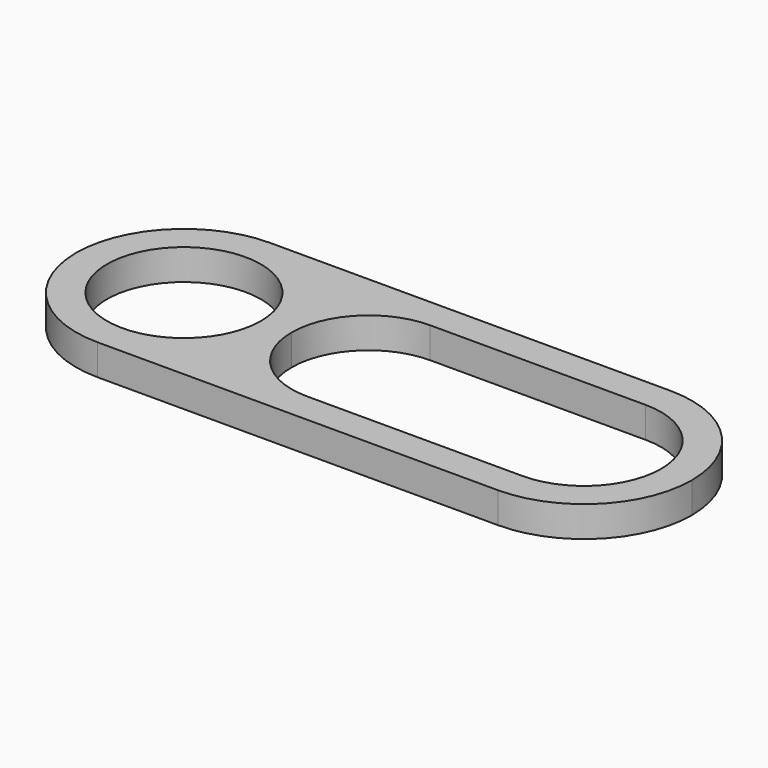
from build123d import *

# Parameters (mm, degrees)
F0_R     = 2.5
F2_DEPTH = 1


with BuildPart() as f2:
    # F0 (on Top) → F2 (new body)
    with BuildSketch(Plane.XY):
        with BuildLine():
            ThreePointArc((6, -2.5), (4.232233047, -1.767766953), (3.5, 0))
            ThreePointArc((3.5, 0), (2.4748737342, -2.4748737342), (0, -3.5))
            Line((0, -3.5), (13, -3.5))
            ThreePointArc((13, -3.5), (11.6771243445, -3.2403703492), (10.5505102572, -2.5))
            Line((10.5505102572, -2.5), (6, -2.5))
        make_face()
        with BuildLine():
            ThreePointArc((16.5, 0), (15.4748737342, 2.4748737342), (13, 3.5))
            ThreePointArc((13, 3.5), (11.6771243445, 3.2403703492), (10.5505102572, 2.5))
            Line((10.5505102572, 2.5), (13, 2.5))
            ThreePointArc((13, 2.5), (14.767766953, 1.767766953), (15.5, 0))
            ThreePointArc((15.5, 0), (14.767766953, -1.767766953), (13, -2.5))
            Line((13, -2.5), (10.5505102572, -2.5))
            ThreePointArc((10.5505102572, -2.5), (11.6771243445, -3.2403703492), (13, -3.5))
            ThreePointArc((13, -3.5), (15.4748737342, -2.4748737342), (16.5, 0))
        make_face()
        with BuildLine():
            ThreePointArc((0, 3.5), (2.4748737342, 2.4748737342), (3.5, 0))
            ThreePointArc((3.5, 0), (4.232233047, 1.767766953), (6, 2.5))
            Line((6, 2.5), (10.5505102572, 2.5))
            ThreePointArc((10.5505102572, 2.5), (11.6771243445, 3.2403703492), (13, 3.5))
            Line((13, 3.5), (0, 3.5))
        make_face()
        with BuildLine():
            ThreePointArc((0, -3.5), (2.4748737342, -2.4748737342), (3.5, 0))
            ThreePointArc((3.5, 0), (2.4748737342, 2.4748737342), (0, 3.5))
            ThreePointArc((0, 3.5), (-3.5, 0), (0, -3.5))
        make_face()
        Circle(F0_R, mode=Mode.SUBTRACT)
    extrude(amount=F2_DEPTH)


solid = f2.part
